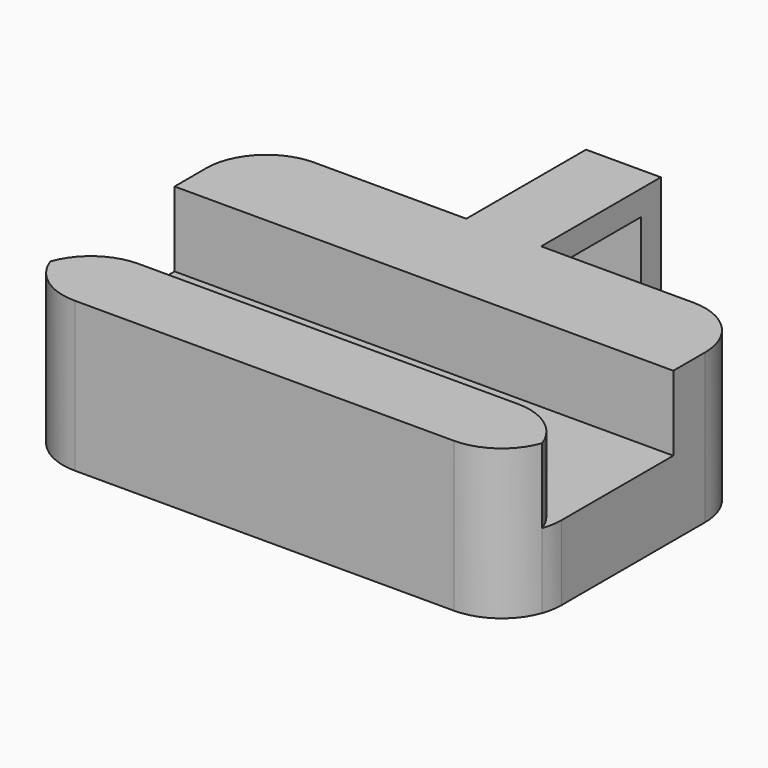
from build123d import *

# Parameters (mm, degrees)
F1_DEPTH      = 3
F2_DEPTH      = 6
F4_DEPTH      = 1.5
F4_DEPTH_BACK = 1.5


with BuildPart() as f1:
    # F0 (on Top) → F1 (new body)
    with BuildSketch(Plane.XY):
        with BuildLine():
            ThreePointArc((5.811145618, 2), (5.4091097712, 4.5797958998), (7.6000000059, 6))
            Line((7.6000000059, 6), (-7.5999999941, 6))
            ThreePointArc((-7.5999999941, 6), (-5.9029437231, 5.2970562728), (-5.2, 3.6))
            ThreePointArc((-5.2, 3.6), (-5.3579863385, 2.7436269845), (-5.811145618, 2))
            Line((-5.811145618, 2), (5.811145618, 2))
        make_face()
        with BuildLine():
            ThreePointArc((7.6, -6), (8.9856406461, -5.5595917942), (9.8627416998, -4.4))
            ThreePointArc((9.8627416998, -4.4), (8.9856406461, -3.2404082058), (7.6, -2.8))
            ThreePointArc((7.6, -2.8), (6.2143593539, -3.2404082058), (5.3372583002, -4.4))
            ThreePointArc((5.3372583002, -4.4), (6.2143593539, -5.5595917942), (7.6, -6))
        make_face()
        with BuildLine():
            ThreePointArc((9.8627416998, -4.4), (9.9654365432, -4.0058447489), (10, -3.6))
            ThreePointArc((10, -3.6), (8.0058447489, -1.2345634568), (5.3372583002, -2.8))
            Line((5.3372583002, -2.8), (7.6, -2.8))
            ThreePointArc((7.6, -2.8), (8.9856406461, -3.2404082058), (9.8627416998, -4.4))
        make_face()
        with BuildLine():
            ThreePointArc((7.6, -6), (6.2143593539, -5.5595917942), (5.3372583002, -4.4))
            ThreePointArc((5.3372583002, -4.4), (5.2, -5.2), (5.3372583002, -6))
            Line((5.3372583002, -6), (7.6, -6))
        make_face()
        with BuildLine():
            ThreePointArc((-5.3372583002, -4.4), (-6.2143593453, -5.5595917881), (-7.5999999788, -6))
            Line((-7.5999999788, -6), (-5.3372583002, -6))
            ThreePointArc((-5.3372583002, -6), (-5.2345634568, -5.6058447489), (-5.2, -5.2))
            ThreePointArc((-5.2, -5.2), (-5.2345634568, -4.7941552511), (-5.3372583002, -4.4))
        make_face()
        with BuildLine():
            ThreePointArc((-7.6, -2.8), (-8.9856406461, -3.2404082058), (-9.8627416998, -4.4))
            ThreePointArc((-9.8627416998, -4.4), (-8.9856406374, -5.5595918003), (-7.5999999788, -6))
            ThreePointArc((-7.5999999788, -6), (-6.2143593453, -5.5595917881), (-5.3372583002, -4.4))
            ThreePointArc((-5.3372583002, -4.4), (-6.2143593539, -3.2404082058), (-7.6, -2.8))
        make_face()
        with BuildLine():
            ThreePointArc((-5.3372583002, -2.8), (-8.0058447489, -1.2345634568), (-10, -3.6))
            ThreePointArc((-10, -3.6), (-9.9654365432, -4.0058447489), (-9.8627416998, -4.4))
            ThreePointArc((-9.8627416998, -4.4), (-8.9856406461, -3.2404082058), (-7.6, -2.8))
            Line((-7.6, -2.8), (-5.3372583002, -2.8))
        make_face()
        with BuildLine():
            ThreePointArc((-5.2, 3.6), (-5.9029437231, 5.2970562728), (-7.5999999941, 6))
            ThreePointArc((-7.5999999941, 6), (-9.2970562728, 5.2970562769), (-10, 3.6))
            ThreePointArc((-10, 3.6), (-9.8420136615, 2.7436269845), (-9.388854382, 2))
            Line((-9.388854382, 2), (-5.811145618, 2))
            ThreePointArc((-5.811145618, 2), (-5.3579863385, 2.7436269845), (-5.2, 3.6))
        make_face()
        with BuildLine():
            ThreePointArc((10, 3.6), (9.2970562769, 5.2970562728), (7.6000000059, 6))
            ThreePointArc((7.6000000059, 6), (5.4091097712, 4.5797958998), (5.811145618, 2))
            Line((5.811145618, 2), (9.388854382, 2))
            ThreePointArc((9.388854382, 2), (9.8420136615, 2.7436269845), (10, 3.6))
        make_face()
        with BuildLine():
            ThreePointArc((5.3372583002, -4.4), (5.2, -3.6), (5.3372583002, -2.8))
            Line((5.3372583002, -2.8), (-5.3372583002, -2.8))
            ThreePointArc((-5.3372583002, -2.8), (-5.2345634568, -3.1941552511), (-5.2, -3.6))
            ThreePointArc((-5.2, -3.6), (-5.2345634568, -4.0058447489), (-5.3372583002, -4.4))
            ThreePointArc((-5.3372583002, -4.4), (-5.2345634568, -4.7941552511), (-5.2, -5.2))
            ThreePointArc((-5.2, -5.2), (-5.2345634568, -5.6058447489), (-5.3372583002, -6))
            Line((-5.3372583002, -6), (5.3372583002, -6))
            ThreePointArc((5.3372583002, -6), (5.2, -5.2), (5.3372583002, -4.4))
        make_face()
        with BuildLine():
            ThreePointArc((-5.2, -3.6), (-5.2345634568, -3.1941552511), (-5.3372583002, -2.8))
            Line((-5.3372583002, -2.8), (-7.6, -2.8))
            ThreePointArc((-7.6, -2.8), (-6.2143593539, -3.2404082058), (-5.3372583002, -4.4))
            ThreePointArc((-5.3372583002, -4.4), (-5.2345634568, -4.0058447489), (-5.2, -3.6))
        make_face()
        with BuildLine():
            Line((7.6, -2.8), (5.3372583002, -2.8))
            ThreePointArc((5.3372583002, -2.8), (5.2, -3.6), (5.3372583002, -4.4))
            ThreePointArc((5.3372583002, -4.4), (6.2143593539, -3.2404082058), (7.6, -2.8))
        make_face()
        with BuildLine():
            ThreePointArc((5.811145618, 2), (5.4091097712, 4.5797958998), (7.6000000059, 6))
            Line((7.6000000059, 6), (-7.5999999941, 6))
            ThreePointArc((-7.5999999941, 6), (-5.9029437231, 5.2970562728), (-5.2, 3.6))
            ThreePointArc((-5.2, 3.6), (-5.3579863385, 2.7436269845), (-5.811145618, 2))
            Line((-5.811145618, 2), (5.811145618, 2))
        make_face()
        with BuildLine():
            ThreePointArc((9.388854382, 2), (7.6, 1.2), (5.811145618, 2))
            Line((5.811145618, 2), (-5.811145618, 2))
            ThreePointArc((-5.811145618, 2), (-7.6, 1.2), (-9.388854382, 2))
            Line((-9.388854382, 2), (-10, 2))
            Line((-10, 2), (-10, -3.6))
            ThreePointArc((-10, -3.6), (-8.0058447489, -1.2345634568), (-5.3372583002, -2.8))
            Line((-5.3372583002, -2.8), (5.3372583002, -2.8))
            ThreePointArc((5.3372583002, -2.8), (8.0058447489, -1.2345634568), (10, -3.6))
            Line((10, -3.6), (10, 2))
            Line((10, 2), (9.388854382, 2))
        make_face()
        with BuildLine():
            Line((9.388854382, 2), (5.811145618, 2))
            ThreePointArc((5.811145618, 2), (7.6, 1.2), (9.388854382, 2))
        make_face()
        with BuildLine():
            ThreePointArc((-9.388854382, 2), (-7.6, 1.2), (-5.811145618, 2))
            Line((-5.811145618, 2), (-9.388854382, 2))
        make_face()
        with BuildLine():
            ThreePointArc((-9.388854382, 2), (-9.8420136615, 2.7436269845), (-10, 3.6))
            Line((-10, 3.6), (-10, 2))
            Line((-10, 2), (-9.388854382, 2))
        make_face()
        with BuildLine():
            Line((10, 2), (10, 3.6))
            ThreePointArc((10, 3.6), (9.8420136615, 2.7436269845), (9.388854382, 2))
            Line((9.388854382, 2), (10, 2))
        make_face()
    extrude(amount=F1_DEPTH)

    # F0 (on Top) → F2 (join)
    with BuildSketch(Plane.XY):
        with BuildLine():
            ThreePointArc((5.3372583002, -4.4), (5.2, -3.6), (5.3372583002, -2.8))
            Line((5.3372583002, -2.8), (-5.3372583002, -2.8))
            ThreePointArc((-5.3372583002, -2.8), (-5.2345634568, -3.1941552511), (-5.2, -3.6))
            ThreePointArc((-5.2, -3.6), (-5.2345634568, -4.0058447489), (-5.3372583002, -4.4))
            ThreePointArc((-5.3372583002, -4.4), (-5.2345634568, -4.7941552511), (-5.2, -5.2))
            ThreePointArc((-5.2, -5.2), (-5.2345634568, -5.6058447489), (-5.3372583002, -6))
            Line((-5.3372583002, -6), (5.3372583002, -6))
            ThreePointArc((5.3372583002, -6), (5.2, -5.2), (5.3372583002, -4.4))
        make_face()
        with BuildLine():
            ThreePointArc((-7.6, -2.8), (-8.9856406461, -3.2404082058), (-9.8627416998, -4.4))
            ThreePointArc((-9.8627416998, -4.4), (-8.9856406374, -5.5595918003), (-7.5999999788, -6))
            ThreePointArc((-7.5999999788, -6), (-6.2143593453, -5.5595917881), (-5.3372583002, -4.4))
            ThreePointArc((-5.3372583002, -4.4), (-6.2143593539, -3.2404082058), (-7.6, -2.8))
        make_face()
        with BuildLine():
            ThreePointArc((-5.3372583002, -4.4), (-6.2143593453, -5.5595917881), (-7.5999999788, -6))
            Line((-7.5999999788, -6), (-5.3372583002, -6))
            ThreePointArc((-5.3372583002, -6), (-5.2345634568, -5.6058447489), (-5.2, -5.2))
            ThreePointArc((-5.2, -5.2), (-5.2345634568, -4.7941552511), (-5.3372583002, -4.4))
        make_face()
        with BuildLine():
            ThreePointArc((-5.2, -3.6), (-5.2345634568, -3.1941552511), (-5.3372583002, -2.8))
            Line((-5.3372583002, -2.8), (-7.6, -2.8))
            ThreePointArc((-7.6, -2.8), (-6.2143593539, -3.2404082058), (-5.3372583002, -4.4))
            ThreePointArc((-5.3372583002, -4.4), (-5.2345634568, -4.0058447489), (-5.2, -3.6))
        make_face()
        with BuildLine():
            ThreePointArc((7.6, -6), (8.9856406461, -5.5595917942), (9.8627416998, -4.4))
            ThreePointArc((9.8627416998, -4.4), (8.9856406461, -3.2404082058), (7.6, -2.8))
            ThreePointArc((7.6, -2.8), (6.2143593539, -3.2404082058), (5.3372583002, -4.4))
            ThreePointArc((5.3372583002, -4.4), (6.2143593539, -5.5595917942), (7.6, -6))
        make_face()
        with BuildLine():
            ThreePointArc((7.6, -6), (6.2143593539, -5.5595917942), (5.3372583002, -4.4))
            ThreePointArc((5.3372583002, -4.4), (5.2, -5.2), (5.3372583002, -6))
            Line((5.3372583002, -6), (7.6, -6))
        make_face()
        with BuildLine():
            Line((7.6, -2.8), (5.3372583002, -2.8))
            ThreePointArc((5.3372583002, -2.8), (5.2, -3.6), (5.3372583002, -4.4))
            ThreePointArc((5.3372583002, -4.4), (6.2143593539, -3.2404082058), (7.6, -2.8))
        make_face()
        with BuildLine():
            ThreePointArc((-5.2, 3.6), (-5.9029437231, 5.2970562728), (-7.5999999941, 6))
            ThreePointArc((-7.5999999941, 6), (-9.2970562728, 5.2970562769), (-10, 3.6))
            ThreePointArc((-10, 3.6), (-9.8420136615, 2.7436269845), (-9.388854382, 2))
            Line((-9.388854382, 2), (-5.811145618, 2))
            ThreePointArc((-5.811145618, 2), (-5.3579863385, 2.7436269845), (-5.2, 3.6))
        make_face()
        with BuildLine():
            ThreePointArc((5.811145618, 2), (5.4091097712, 4.5797958998), (7.6000000059, 6))
            Line((7.6000000059, 6), (-7.5999999941, 6))
            ThreePointArc((-7.5999999941, 6), (-5.9029437231, 5.2970562728), (-5.2, 3.6))
            ThreePointArc((-5.2, 3.6), (-5.3579863385, 2.7436269845), (-5.811145618, 2))
            Line((-5.811145618, 2), (5.811145618, 2))
        make_face()
        with BuildLine():
            ThreePointArc((10, 3.6), (9.2970562769, 5.2970562728), (7.6000000059, 6))
            ThreePointArc((7.6000000059, 6), (5.4091097712, 4.5797958998), (5.811145618, 2))
            Line((5.811145618, 2), (9.388854382, 2))
            ThreePointArc((9.388854382, 2), (9.8420136615, 2.7436269845), (10, 3.6))
        make_face()
        with BuildLine():
            Line((10, 2), (10, 3.6))
            ThreePointArc((10, 3.6), (9.8420136615, 2.7436269845), (9.388854382, 2))
            Line((9.388854382, 2), (10, 2))
        make_face()
        with BuildLine():
            ThreePointArc((-9.388854382, 2), (-9.8420136615, 2.7436269845), (-10, 3.6))
            Line((-10, 3.6), (-10, 2))
            Line((-10, 2), (-9.388854382, 2))
        make_face()
    extrude(amount=F2_DEPTH)

    # F3 (on Right) → F4 (join, two sides)
    with BuildSketch(Plane.YZ) as f4_sk:
        Polygon((6, 1), (6, 0), (12, 0), (12, 6), (6, 6), (6, 5), (11, 5), (11, 1), align=None)
    extrude(amount=F4_DEPTH)
    extrude(f4_sk.sketch, amount=-F4_DEPTH_BACK)


solid = f1.part
